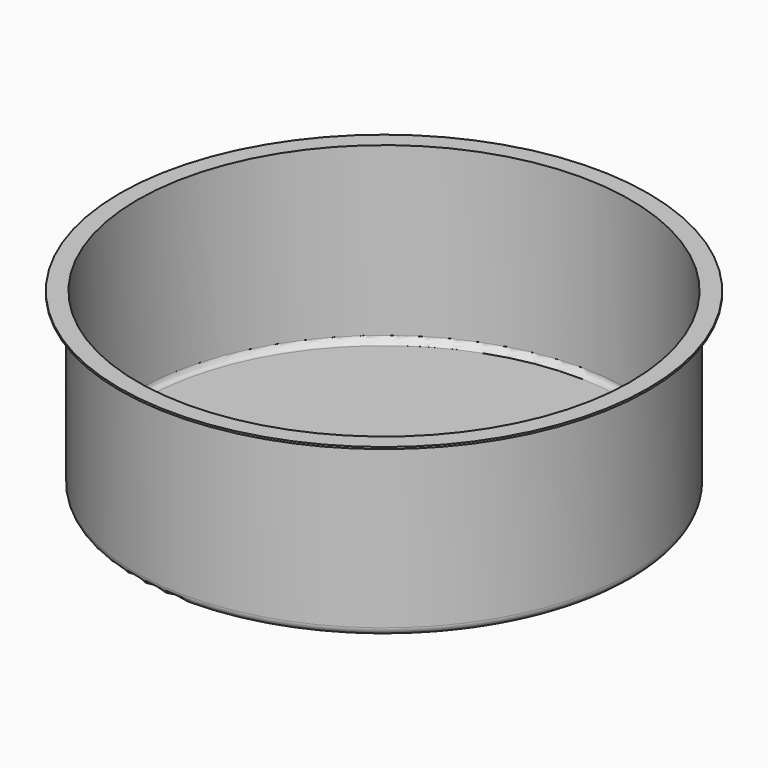
from build123d import *

# Parameters (mm, degrees)
F2_R = 2.413
F3_R = 3.175


with BuildPart() as f1:
    # F0 (on Front) → F1 (revolve)
    with BuildSketch(Plane.XZ):
        Polygon((-106.3625, 70.612), (-106.3625, 69.85), (-100.0125, 69.85), (-100.0125, 0), (0, 0), (0, 0.762), (-99.2505, 0.762), (-99.2505, 70.612), align=None)
    revolve(axis=Axis((0, 0, 33.215944), (0, 0, 1)))

    # F2
    f2_edges = [f1.edges().sort_by_distance(p)[0] for p in [
        (99.2505, 0, 0.762),
    ]]
    fillet(f2_edges, radius=F2_R)

    # F3
    f3_edges = [f1.edges().sort_by_distance(p)[0] for p in [
        (100.0125, 0, 0),
    ]]
    fillet(f3_edges, radius=F3_R)


solid = f1.part
